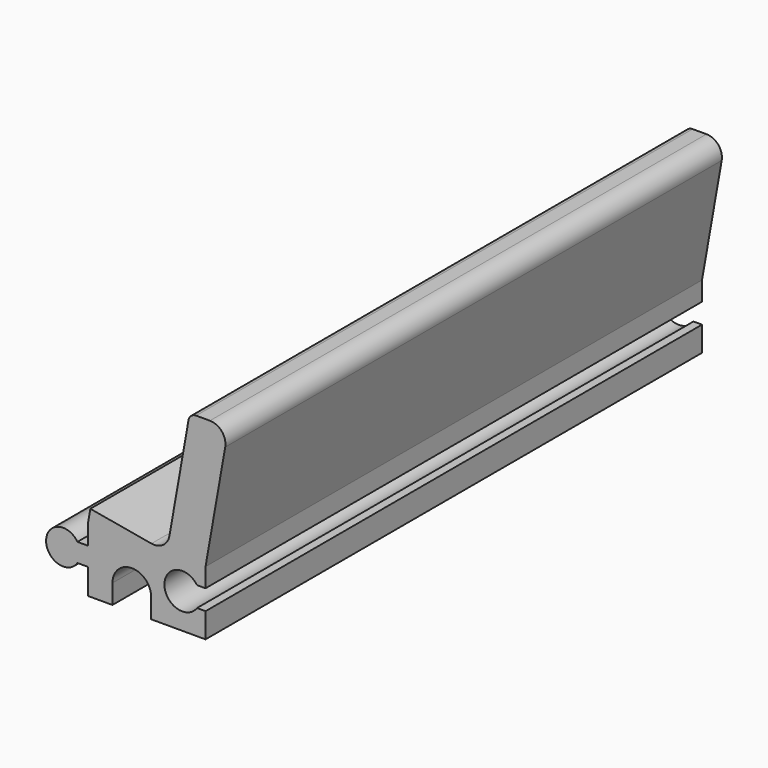
from build123d import *

# Parameters (mm, degrees)
F1_DEPTH = 80
F2_R     = 2
F3_R     = 1


with BuildPart() as f1:
    # F0 (on Front) → F1 (new body)
    with BuildSketch(Plane.XZ):
        with BuildLine():
            Line((5, 25), (0, 25))
            Line((0, 25), (-2.952019, 8.258268))
            Line((-2.952019, 8.258268), (-12.800097, 9.99475))
            Line((-12.800097, 9.99475), (-13.106285, 8.258268))
            Line((-13.106285, 8.258268), (-13.106285, 5.7))
            Line((-13.106285, 5.7), (-14.462376, 5.7))
            ThreePointArc((-14.462376, 5.7), (-18.506285, 4.5), (-14.462376, 3.3))
            Line((-14.462376, 3.3), (-13.106285, 3.3))
            Line((-13.106285, 3.3), (-13.106285, 0))
            Line((-13.106285, 0), (-9.952019, 0))
            Line((-9.952019, 0), (-9.952019, 2.5))
            ThreePointArc((-9.952019, 2.5), (-7.452019, 5), (-4.952019, 2.5))
            Line((-4.952019, 2.5), (-4.952019, 0))
            Line((-4.952019, 0), (2.047981, 0))
            Line((2.047981, 0), (2.047981, 3.2))
            Line((2.047981, 3.2), (0.945348, 3.2))
            ThreePointArc((0.945348, 3.2), (-3.252019, 4.5), (0.945348, 5.8))
            Line((0.945348, 5.8), (2.047981, 5.8))
            Line((2.047981, 5.8), (2.047981, 8.258268))
            Line((2.047981, 8.258268), (5, 25))
        make_face()
    extrude(amount=F1_DEPTH)

    # F2
    f2_edges = [f1.edges().sort_by_distance(p)[0] for p in [
        (5, -40, 25),
        (-2.952019, -40, 8.258268),
    ]]
    fillet(f2_edges, radius=F2_R)

    # F3
    f3_edges = [f1.edges().sort_by_distance(p)[0] for p in [
        (0, -40, 25),
    ]]
    fillet(f3_edges, radius=F3_R)


solid = f1.part
